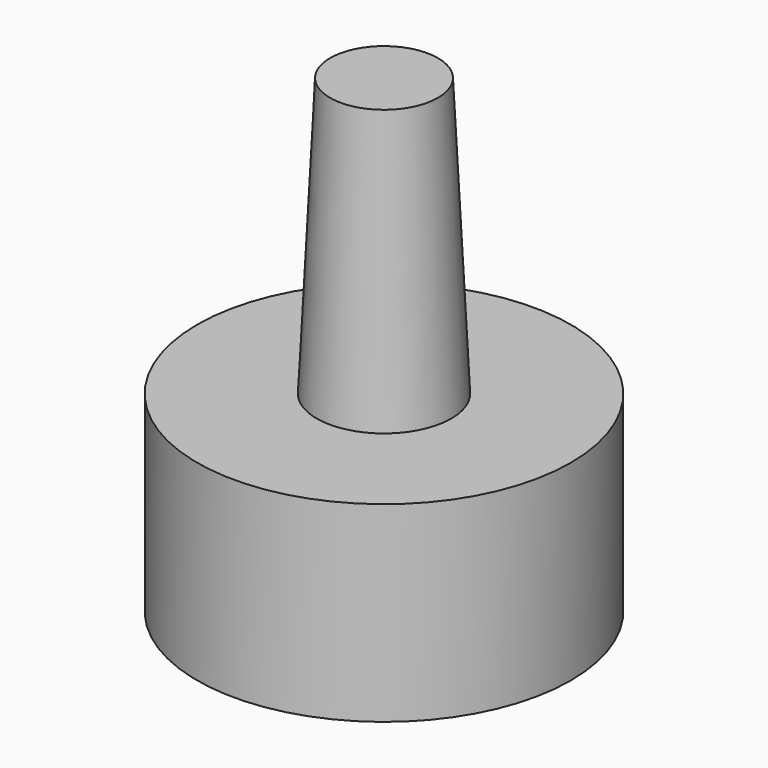
from build123d import *

# Parameters (mm, degrees)
F0_R     = 3.9
F1_DEPTH = 4
F2_R     = 1.405
F4_R     = 1.125


with BuildPart() as f1:
    # F0 (on Top) → F1 (new body)
    with BuildSketch(Plane.XY):
        Circle(F0_R)
    extrude(amount=-F1_DEPTH)

    # F2 (on Top) → F5 section 0
    with BuildSketch(Plane.XY):
        Circle(F2_R)
    # F4 (on offset) → F5 section 1
    with BuildSketch(Plane.XY.offset(5.8)):
        Circle(F4_R)
    loft()


solid = f1.part
